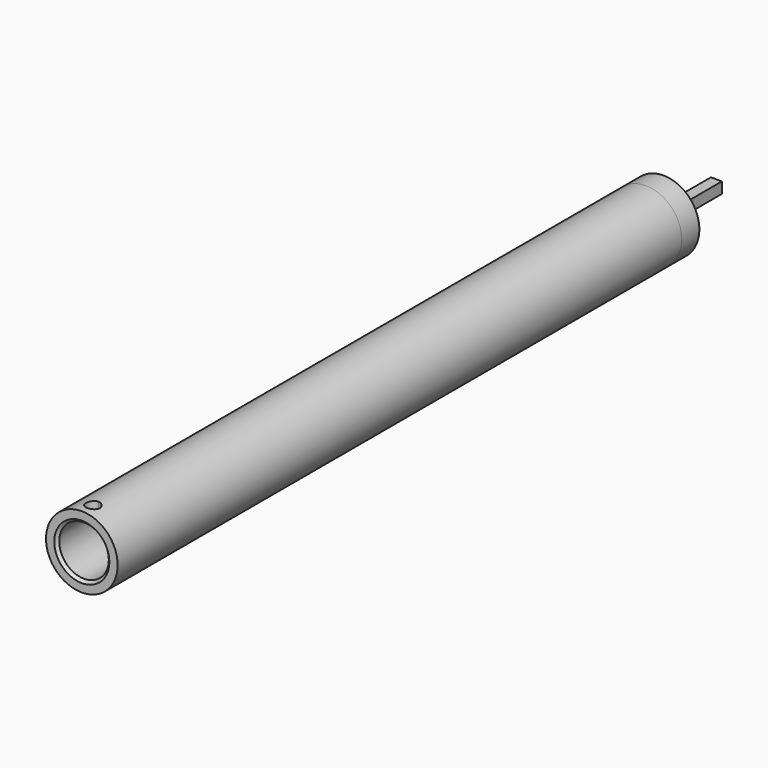
from build123d import *

# Parameters (mm, degrees)
F0_R     = 20.6375
F0_R_2   = 14.2875
F1_DEPTH = 406.4
F2_R     = 20.6375
F3_DEPTH = 12.7
F4_W     = 6.35
F4_H     = 6.35
F5_DEPTH = 38.1
F7_DEPTH = 25.4
F8_SIZE  = 1.5875


with BuildPart() as f1:
    # F0 (on Front) → F1 (new body)
    with BuildSketch(Plane.XZ):
        Circle(F0_R)
        Circle(F0_R_2, mode=Mode.SUBTRACT)
    extrude(amount=F1_DEPTH)

    # F2 (on face) → F3 (join)
    with BuildSketch(Plane(origin=(0, 0, 0), x_dir=(-1, 0, 0), z_dir=(0, 1, 0))):
        Circle(F2_R)
    extrude(amount=F3_DEPTH)

    # F4 (on face) → F5 (join)
    with BuildSketch(Plane(origin=(0, 12.7, 0), x_dir=(-1, 0, 0), z_dir=(0, 1, 0))):
        Rectangle(F4_W, F4_H)
    extrude(amount=F5_DEPTH)

    # F6 (on Top) → F7 (cut)
    with BuildSketch(Plane.XY):
        with BuildLine():
            ThreePointArc((0, -394.49375), (-2.80633, -401.26883), (3.96875, -398.4625))
            ThreePointArc((3.96875, -398.4625), (2.80633, -395.65617), (0, -394.49375))
        make_face()
    extrude(amount=F7_DEPTH, mode=Mode.SUBTRACT)

    # F8
    f8_edges = [f1.edges().sort_by_distance(p)[0] for p in [
        (-14.2875, -406.4, 0),
    ]]
    chamfer(f8_edges, length=F8_SIZE)


solid = f1.part
